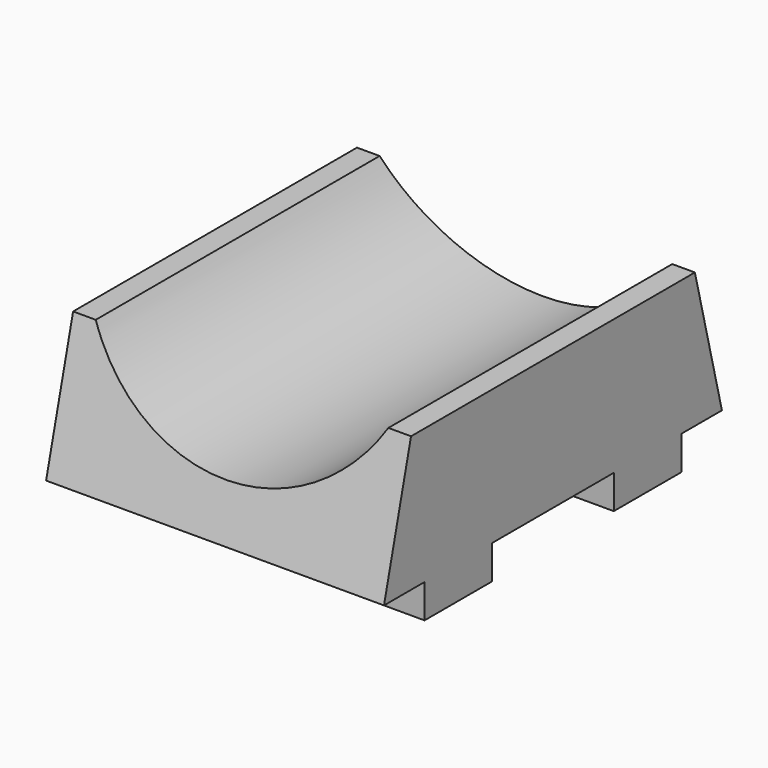
from build123d import *

# Parameters (mm, degrees)
F0_W     = 5
F0_H     = 2
F1_DEPTH = 20
F2_R     = 10
F3_DEPTH = 25.4


with BuildPart() as f1:
    # F0 (on Right) → F1 (new body)
    with BuildSketch(Plane.YZ):
        Polygon((2, 8), (0, 0), (3, 0), (8, 0), (17, 0), (22, 0), (25, 0), (23, 8), align=None)
        with Locations((5.5, -1)):
            Rectangle(F0_W, F0_H)
        with Locations((19.5, -1)):
            Rectangle(F0_W, F0_H)
    extrude(amount=F1_DEPTH)

    # F2 (on Front) → F3 (cut)
    with BuildSketch(Plane.XZ):
        with Locations((10, 13)):
            Circle(F2_R)
    extrude(amount=-F3_DEPTH, mode=Mode.SUBTRACT)


solid = f1.part
